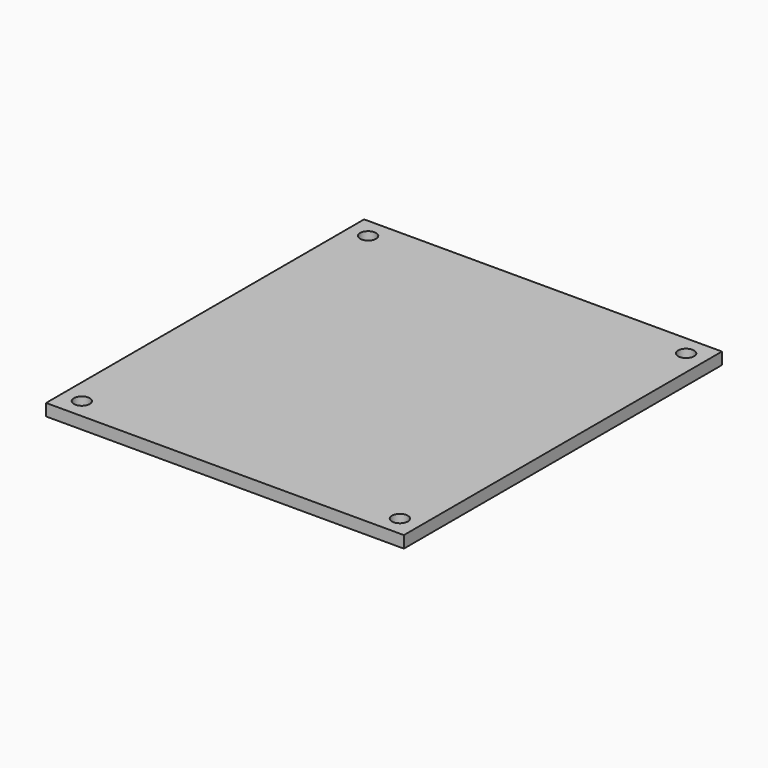
from build123d import *

# Parameters (mm, degrees)
CYLINDER204_R     = 2
CYLINDER204_DEPTH = 13
CYLINDER205_R     = 2
CYLINDER205_DEPTH = 13
CYLINDER203_R     = 2
CYLINDER203_DEPTH = 13
CYLINDER206_R     = 2
CYLINDER206_DEPTH = 13
BOX259_W          = 90
BOX259_H          = 100
BOX259_DEPTH      = 3


with BuildPart() as cylinder204:
    # Cylinder204 → Cylinder204 (new body)
    with BuildSketch(Plane(origin=(33, 55, 32), x_dir=(1, 0, 0), z_dir=(0, 0, 1))):
        Circle(CYLINDER204_R)
    extrude(amount=CYLINDER204_DEPTH)


with BuildPart() as cylinder205:
    # Cylinder205 → Cylinder205 (new body)
    with BuildSketch(Plane(origin=(-47, 55, 32), x_dir=(1, 0, 0), z_dir=(0, 0, 1))):
        Circle(CYLINDER205_R)
    extrude(amount=CYLINDER205_DEPTH)


with BuildPart() as cylinder203:
    # Cylinder203 → Cylinder203 (new body)
    with BuildSketch(Plane(origin=(33, -35, 32), x_dir=(1, 0, 0), z_dir=(0, 0, 1))):
        Circle(CYLINDER203_R)
    extrude(amount=CYLINDER203_DEPTH)


with BuildPart() as cylinder206:
    # Cylinder206 → Cylinder206 (new body)
    with BuildSketch(Plane(origin=(-47, -35, 32), x_dir=(1, 0, 0), z_dir=(0, 0, 1))):
        Circle(CYLINDER206_R)
    extrude(amount=CYLINDER206_DEPTH)


with BuildPart() as cut171:
    # Box259 → Box259 (new body)
    with BuildSketch(Plane(origin=(-52, -40, 42), x_dir=(1, 0, 0), z_dir=(0, 0, 1))):
        with Locations((45, 50)):
            Rectangle(BOX259_W, BOX259_H)
    extrude(amount=BOX259_DEPTH)

    # Cut168: cut Cylinder206
    add(cylinder206.part, mode=Mode.SUBTRACT)

    # Cut169: cut Cylinder203
    add(cylinder203.part, mode=Mode.SUBTRACT)

    # Cut170: cut Cylinder205
    add(cylinder205.part, mode=Mode.SUBTRACT)

    # Cut171: cut Cylinder204
    add(cylinder204.part, mode=Mode.SUBTRACT)


with BuildPart() as cut171_1:
    # Cut171 placement: moved
    add(cut171.part.moved(Location((0, 16, 15))))


solid = cut171_1.part
